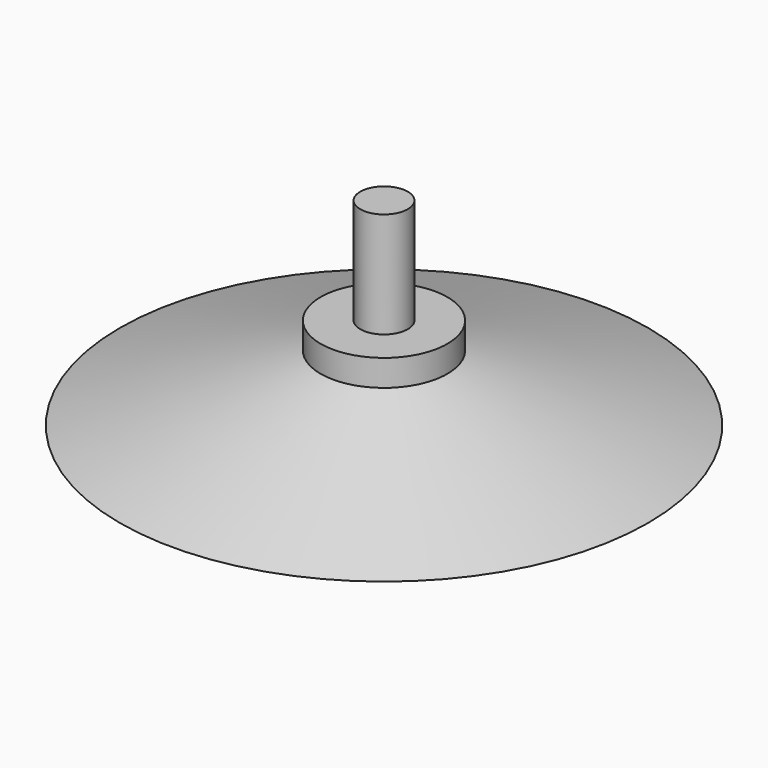
from build123d import *


with BuildPart() as part:
    # Sketch → Revolution (revolve)
    with BuildSketch(Plane.XZ):
        Polygon((0, 15), (-1.8, 15), (-1.8, 7), (-4.8, 7), (-4.8, 5), (-20, 0), (0, 5), align=None)
    revolve(axis=Axis((0, 0, 0), (0, 0, 1)))


solid = part.part
